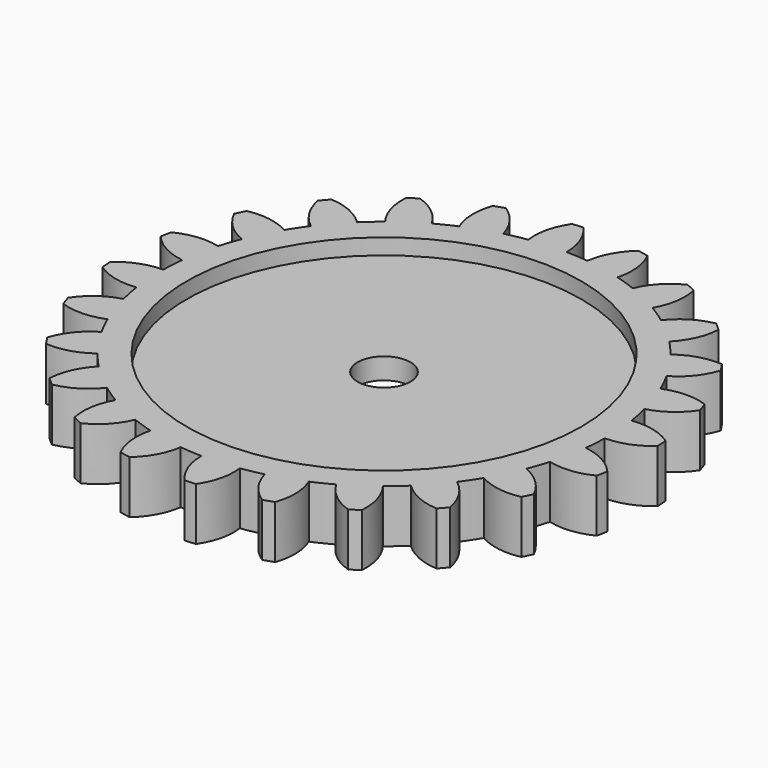
from build123d import *

# Parameters (mm, degrees)
F0_R     = 18.65
F1_DEPTH = 5
F3_COUNT = 24
F3_ANGLE = 345
F4_START = 1.5
F0_R_2   = 2.5
F4_DEPTH = 2


with BuildPart() as f1:
    # F0 (on Top) → F1 (new body)
    with BuildSketch(Plane.XY):
        with BuildLine():
            ThreePointArc((-3.104042357, 20.9209804035), (-1.3832761832, 21.1047162265), (0.3467509348, 21.1471573454))
            ThreePointArc((0.3467509348, 21.1471573454), (-0.036121707, 23.1965421895), (-1.1245828991, 24.9746934576))
            ThreePointArc((-1.1245828991, 24.9746934576), (-1.6350782308, 24.946473081), (-2.1448897024, 24.9078190166))
            ThreePointArc((-2.1448897024, 24.9078190166), (-2.9919436439, 23.0028073843), (-3.104042357, 20.9209804035))
        make_face()
        with BuildLine():
            ThreePointArc((-3.104042357, 20.9209804035), (-13.8143404502, -16.0151958441), (21.15, 0))
            ThreePointArc((21.15, 0), (15.0774049868, 14.8322068103), (0.3467509348, 21.1471573454))
            ThreePointArc((0.3467509348, 21.1471573454), (-1.3832761832, 21.1047162265), (-3.104042357, 20.9209804035))
        make_face()
        Circle(F0_R, mode=Mode.SUBTRACT)
    extrude(amount=F1_DEPTH)

    # F3: F1 ×24 about axis
    f3_axis = Axis((0, 0, 14.1120515764), (0, 0, 1))


with BuildPart() as f1_1:
    add(f1.part)
    for i in range(1, F3_COUNT):
        add(f1.part.rotate(f3_axis, i * F3_ANGLE / (F3_COUNT - 1)))

    # F0 (on Top) → F4 (join)
    with BuildSketch(Plane.XY.offset(F4_START)):
        Circle(F0_R)
        Circle(F0_R_2, mode=Mode.SUBTRACT)
    extrude(amount=F4_DEPTH)


solid = f1_1.part
